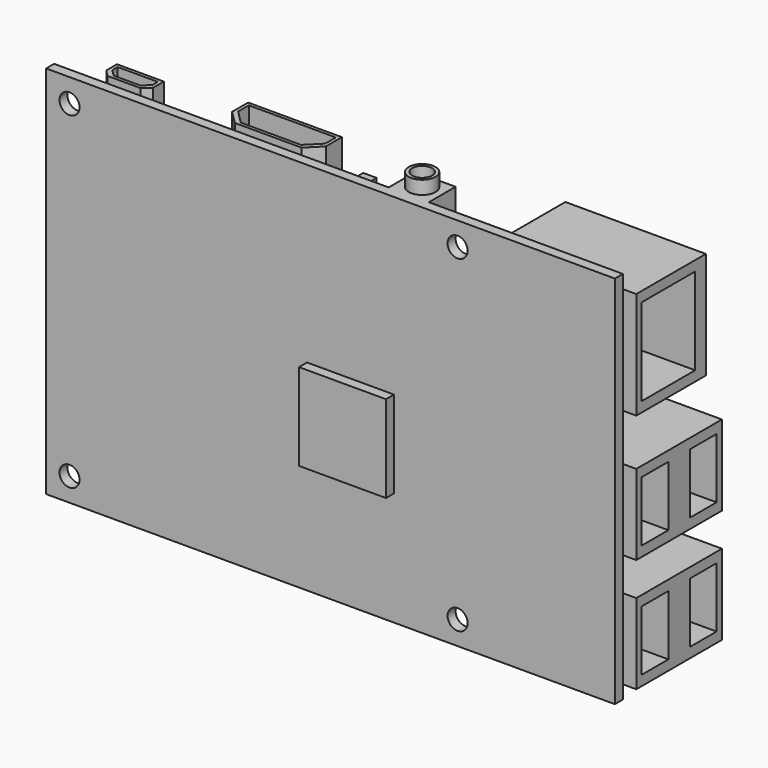
from build123d import *

# Parameters (mm, degrees)
SKETCH_W        = 85
SKETCH_H        = 56
SKETCH_R        = 1.5
PAD_DEPTH       = 1.5
SKETCH001_W     = 17
SKETCH001_H     = 12
PAD001_DEPTH    = 16
SKETCH002_W     = 9
SKETCH002_H     = 5
POCKET_DEPTH    = 9
SKETCH003_W     = 21
SKETCH003_H     = 16
PAD002_DEPTH    = 13
SKETCH004_W     = 13
SKETCH004_H     = 10
POCKET001_DEPTH = 10
SKETCH005_W     = 14
SKETCH005_H     = 12
PAD003_DEPTH    = 5
POCKET002_DEPTH = 12
POCKET003_DEPTH = 10
SKETCH008_W     = 7
SKETCH008_H     = 5
PAD004_DEPTH    = 3
POCKET004_DEPTH = 5
POCKET005_DEPTH = 4
SKETCH011_W     = 6
SKETCH011_H     = 12
PAD005_DEPTH    = 5
SKETCH012_R     = 2
PAD006_DEPTH    = 2
SKETCH013_R     = 1.5
POCKET006_DEPTH = 10
SKETCH014_W     = 50
SKETCH014_H     = 5
PAD007_DEPTH    = 1.5
SKETCH015_R     = 0.5
PAD008_DEPTH    = 6
SKETCH016_W     = 2
SKETCH016_H     = 22
PAD009_DEPTH    = 4
SKETCH017_W     = 15
SKETCH017_H     = 15
SKETCH017_W_2   = 8
SKETCH017_H_2   = 8
PAD010_DEPTH    = 1.5
SKETCH018_W     = 13
SKETCH018_H     = 13
PAD011_DEPTH    = 1.5


with BuildPart() as part:
    # Sketch → Pad (new body)
    with BuildSketch(Plane.XZ):
        with Locations((42.5, 28)):
            Rectangle(SKETCH_W, SKETCH_H)
        with Locations((3.5, 52.5)):
            Circle(SKETCH_R, mode=Mode.SUBTRACT)
        with Locations((61.5, 52.5)):
            Circle(SKETCH_R, mode=Mode.SUBTRACT)
        with Locations((61.5, 3.5)):
            Circle(SKETCH_R, mode=Mode.SUBTRACT)
        with Locations((3.5, 3.5)):
            Circle(SKETCH_R, mode=Mode.SUBTRACT)
    extrude(amount=PAD_DEPTH)

    # Sketch001 (on Face9 of Pad) → Pad001 (join)
    with BuildSketch(Plane(origin=(0, 0, 0), x_dir=(1, 0, 0), z_dir=(0, 1, 0))):
        with Locations((78.5, -8)):
            Rectangle(SKETCH001_W, SKETCH001_H)
        with Locations((78.5, -25)):
            Rectangle(SKETCH001_W, SKETCH001_H)
    extrude(amount=PAD001_DEPTH)

    # Sketch002 (on Face19 of Pad001) → Pocket (cut)
    with BuildSketch(Plane(origin=(87, 0, 0), x_dir=(0, 0, 1), z_dir=(1, 0, 0))):
        with Locations((8, -3.5)):
            Rectangle(SKETCH002_W, SKETCH002_H)
        with Locations((8, -12.5)):
            Rectangle(SKETCH002_W, SKETCH002_H)
        with Locations((25, -3.5)):
            Rectangle(SKETCH002_W, SKETCH002_H)
        with Locations((25, -12.5)):
            Rectangle(SKETCH002_W, SKETCH002_H)
    extrude(amount=-POCKET_DEPTH, mode=Mode.SUBTRACT)

    # Sketch003 (on Face4 of Pocket) → Pad002 (join)
    with BuildSketch(Plane(origin=(0, 0, 0), x_dir=(1, 0, 0), z_dir=(0, 1, 0))):
        with Locations((76.5, -46)):
            Rectangle(SKETCH003_W, SKETCH003_H)
    extrude(amount=PAD002_DEPTH)

    # Sketch004 (on Face25 of Pad002) → Pocket001 (cut)
    with BuildSketch(Plane(origin=(87, 0, 0), x_dir=(0, 0, 1), z_dir=(1, 0, 0))):
        with Locations((46, -6)):
            Rectangle(SKETCH004_W, SKETCH004_H)
    extrude(amount=-POCKET001_DEPTH, mode=Mode.SUBTRACT)

    # Sketch005 (on Face4 of Pocket001) → Pad003 (join)
    with BuildSketch(Plane(origin=(0, 0, 0), x_dir=(1, 0, 0), z_dir=(0, 1, 0))):
        with Locations((32, -51)):
            Rectangle(SKETCH005_W, SKETCH005_H)
    extrude(amount=PAD003_DEPTH)

    # Sketch006 (on Face33 of Pad003) → Pocket002 (cut)
    with BuildSketch(Plane(origin=(0, 0, 57), x_dir=(-1, 0, 0), z_dir=(0, 0, 1))):
        Polygon((-39, 0), (-37, 0), (-39, -2), align=None)
        Polygon((-27, 0), (-25, 0), (-25, -2), align=None)
    extrude(amount=-POCKET002_DEPTH, mode=Mode.SUBTRACT)

    # Sketch007 (on Face38 of Pocket002) → Pocket003 (cut)
    with BuildSketch(Plane(origin=(0, 0, 57), x_dir=(-1, 0, 0), z_dir=(0, 0, 1))):
        Polygon((-25.5, -2.5), (-25.5, -4.5), (-38.5, -4.5), (-38.5, -2.5), (-36.5, -0.5), (-27.5, -0.5), align=None)
    extrude(amount=-POCKET003_DEPTH, mode=Mode.SUBTRACT)

    # Sketch008 (on Face4 of Pocket003) → Pad004 (join)
    with BuildSketch(Plane(origin=(0, 0, 0), x_dir=(1, 0, 0), z_dir=(0, 1, 0))):
        with Locations((10.5, -54.5)):
            Rectangle(SKETCH008_W, SKETCH008_H)
    extrude(amount=PAD004_DEPTH)

    # Sketch009 (on Face37 of Pad004) → Pocket004 (cut)
    with BuildSketch(Plane(origin=(0, 0, 57), x_dir=(-1, 0, 0), z_dir=(0, 0, 1))):
        Polygon((-14, 0), (-12.91, 0), (-14, -1), align=None)
        Polygon((-8, 0), (-7, 0), (-7, -1), align=None)
    extrude(amount=-POCKET004_DEPTH, mode=Mode.SUBTRACT)

    # Sketch010 (on Face48 of Pocket004) → Pocket005 (cut)
    with BuildSketch(Plane(origin=(0, 0, 57), x_dir=(-1, 0, 0), z_dir=(0, 0, 1))):
        Polygon((-7.5, -1.5), (-7.5, -2.5), (-13.5, -2.5), (-13.5, -1.5), (-12.5, -0.5), (-8.5, -0.5), align=None)
    extrude(amount=-POCKET005_DEPTH, mode=Mode.SUBTRACT)

    # Sketch011 (on Face4 of Pocket005) → Pad005 (join)
    with BuildSketch(Plane(origin=(0, 0, 0), x_dir=(1, 0, 0), z_dir=(0, 1, 0))):
        with Locations((53, -50)):
            Rectangle(SKETCH011_W, SKETCH011_H)
    extrude(amount=PAD005_DEPTH)

    # Sketch012 (on Face32 of Pad005) → Pad006 (join)
    with BuildSketch(Plane(origin=(0, 0, 56), x_dir=(-1, 0, 0), z_dir=(0, 0, 1))):
        with Locations((-53, -2.5)):
            Circle(SKETCH012_R)
    extrude(amount=PAD006_DEPTH)

    # Sketch013 (on Face75 of Pad006) → Pocket006 (cut)
    with BuildSketch(Plane(origin=(0, 0, 58), x_dir=(-1, 0, 0), z_dir=(0, 0, 1))):
        with Locations((-53, -2.5)):
            Circle(SKETCH013_R)
    extrude(amount=-POCKET006_DEPTH, mode=Mode.SUBTRACT)

    # Sketch014 (on Face4 of Pocket006) → Pad007 (join)
    with BuildSketch(Plane(origin=(0, 0, 0), x_dir=(1, 0, 0), z_dir=(0, 1, 0))):
        with Locations((32, -3.5)):
            Rectangle(SKETCH014_W, SKETCH014_H)
    extrude(amount=PAD007_DEPTH)

    # Sketch015 (on Face56 of Pad007) → Pad008 (join)
    with BuildSketch(Plane(origin=(0, 1.5, 0), x_dir=(1, 0, 0), z_dir=(0, 1, 0))):
        with Locations((8, -4.79)):
            Circle(SKETCH015_R)
        with Locations((10.54, -4.79)):
            Circle(SKETCH015_R)
        with Locations((13.08, -4.79)):
            Circle(SKETCH015_R)
        with Locations((15.62, -4.79)):
            Circle(SKETCH015_R)
        with Locations((18.16, -4.79)):
            Circle(SKETCH015_R)
        with Locations((20.7, -4.79)):
            Circle(SKETCH015_R)
        with Locations((23.24, -4.79)):
            Circle(SKETCH015_R)
        with Locations((25.78, -4.79)):
            Circle(SKETCH015_R)
        with Locations((28.32, -4.79)):
            Circle(SKETCH015_R)
        with Locations((30.86, -4.79)):
            Circle(SKETCH015_R)
        with Locations((8, -2.25)):
            Circle(SKETCH015_R)
        with Locations((10.54, -2.25)):
            Circle(SKETCH015_R)
        with Locations((13.08, -2.25)):
            Circle(SKETCH015_R)
        with Locations((15.62, -2.25)):
            Circle(SKETCH015_R)
        with Locations((18.16, -2.25)):
            Circle(SKETCH015_R)
        with Locations((20.7, -2.25)):
            Circle(SKETCH015_R)
        with Locations((23.24, -2.25)):
            Circle(SKETCH015_R)
        with Locations((25.78, -2.25)):
            Circle(SKETCH015_R)
        with Locations((28.32, -2.25)):
            Circle(SKETCH015_R)
        with Locations((30.86, -2.25)):
            Circle(SKETCH015_R)
        with Locations((33.4, -2.25)):
            Circle(SKETCH015_R)
        with Locations((33.4, -4.79)):
            Circle(SKETCH015_R)
        with Locations((35.94, -2.25)):
            Circle(SKETCH015_R)
        with Locations((35.94, -4.79)):
            Circle(SKETCH015_R)
        with Locations((38.48, -2.25)):
            Circle(SKETCH015_R)
        with Locations((38.48, -4.79)):
            Circle(SKETCH015_R)
        with Locations((41.02, -2.25)):
            Circle(SKETCH015_R)
        with Locations((41.02, -4.79)):
            Circle(SKETCH015_R)
        with Locations((43.56, -2.25)):
            Circle(SKETCH015_R)
        with Locations((43.56, -4.79)):
            Circle(SKETCH015_R)
        with Locations((46.1, -2.25)):
            Circle(SKETCH015_R)
        with Locations((48.64, -2.25)):
            Circle(SKETCH015_R)
        with Locations((51.18, -2.25)):
            Circle(SKETCH015_R)
        with Locations((53.72, -2.25)):
            Circle(SKETCH015_R)
        with Locations((56.26, -2.25)):
            Circle(SKETCH015_R)
        with Locations((46.1, -4.79)):
            Circle(SKETCH015_R)
        with Locations((48.64, -4.79)):
            Circle(SKETCH015_R)
        with Locations((51.18, -4.79)):
            Circle(SKETCH015_R)
        with Locations((53.72, -4.79)):
            Circle(SKETCH015_R)
        with Locations((56.26, -4.79)):
            Circle(SKETCH015_R)
    extrude(amount=PAD008_DEPTH)

    # Sketch016 (on Face4 of Pad008) → Pad009 (join)
    with BuildSketch(Plane(origin=(0, 0, 0), x_dir=(1, 0, 0), z_dir=(0, 1, 0))):
        with Locations((3, -26)):
            Rectangle(SKETCH016_W, SKETCH016_H)
        with Locations((44, -43)):
            Rectangle(SKETCH016_W, SKETCH016_H)
    extrude(amount=PAD009_DEPTH)

    # Sketch017 (on Face4 of Pad009) → Pad010 (join)
    with BuildSketch(Plane(origin=(0, 0, 0), x_dir=(1, 0, 0), z_dir=(0, 1, 0))):
        with Locations((22.5, -23.5)):
            Rectangle(SKETCH017_W, SKETCH017_H)
        with Locations((59, -21)):
            Rectangle(SKETCH017_W_2, SKETCH017_H_2)
    extrude(amount=PAD010_DEPTH)

    # Sketch018 (on Face5 of Pad010) → Pad011 (join)
    with BuildSketch(Plane.XZ.offset(1.5)):
        with Locations((45.5, 23.5)):
            Rectangle(SKETCH018_W, SKETCH018_H)
    extrude(amount=PAD011_DEPTH)


solid = part.part
